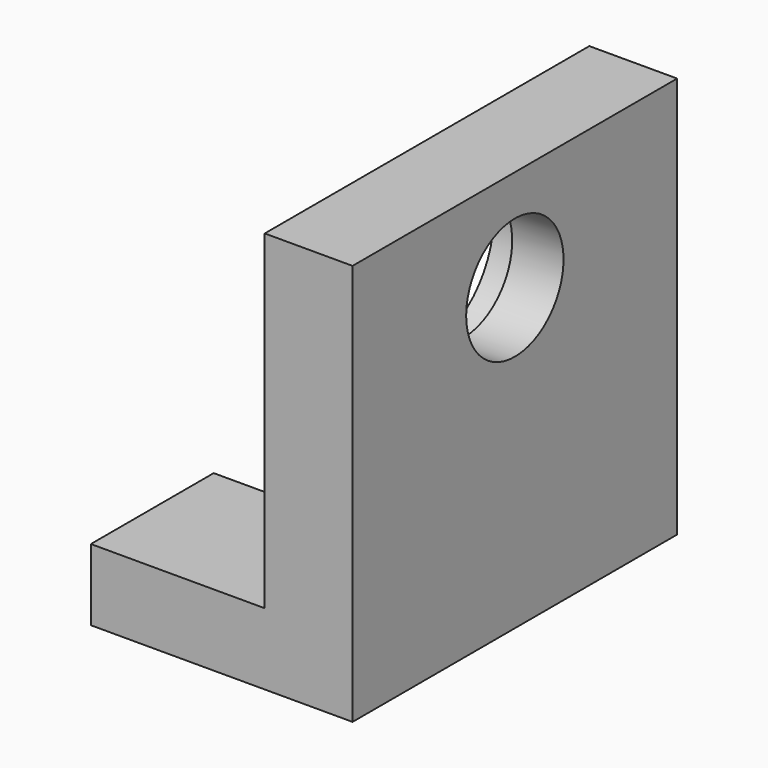
from build123d import *

# Parameters (mm, degrees)
F1_DEPTH = 38.1
F2_R     = 11.430216
F3_DEPTH = 16.495738
F4_R     = 15.667724
F4_R_2   = 11.430216
F5_DEPTH = 6.858
F7_DEPTH = 13.431763


with BuildPart() as f1:
    # F0 (on Front) → F1 (new body, symmetric)
    with BuildSketch(Plane.XZ):
        Polygon((-49.148042, 0), (0, 0), (0, 75.40103), (-16.495738, 75.40103), (-16.495738, 13.431763), (-49.148042, 13.431763), align=None)
    extrude(amount=F1_DEPTH, both=True)

    # F2 (on face) → F3 (cut, through all)
    with BuildSketch(Plane(origin=(-16.495738, 0, 0), x_dir=(0, -1, 0), z_dir=(-1, 0, 0))):
        with Locations((0, 56.321822)):
            Circle(F2_R)
    extrude(amount=-F3_DEPTH, mode=Mode.SUBTRACT)

    # F4 (on face) → F5 (cut)
    with BuildSketch(Plane(origin=(-16.495738, 0, 0), x_dir=(0, -1, 0), z_dir=(-1, 0, 0))):
        with Locations((0, 56.321822)):
            Circle(F4_R)
        with Locations((0, 56.321822)):
            Circle(F4_R_2, mode=Mode.SUBTRACT)
    extrude(amount=-F5_DEPTH, mode=Mode.SUBTRACT)

    # F6 (on face) → F7 (cut, through all)
    with BuildSketch(Plane.XY.offset(13.431763)):
        with BuildLine():
            ThreePointArc((-37.367893, -9.263817), (-30.573506, -6.685717), (-27.725438, 0))
            ThreePointArc((-27.725438, 0), (-30.374154, 6.488307), (-36.806871, 9.269308))
            Line((-36.806871, 9.269308), (-37.186506, 9.269308))
            ThreePointArc((-37.186506, 9.269308), (-46.267496, 0.090735), (-37.367893, -9.263817))
        make_face()
        with BuildLine():
            Line((-49.148042, -9.263817), (-37.367893, -9.263817))
            ThreePointArc((-37.367893, -9.263817), (-46.267496, 0.090735), (-37.186506, 9.269308))
            Line((-37.186506, 9.269308), (-49.148042, 9.269308))
            Line((-49.148042, 9.269308), (-49.148042, -9.263817))
        make_face()
    extrude(amount=-F7_DEPTH, mode=Mode.SUBTRACT)


solid = f1.part
